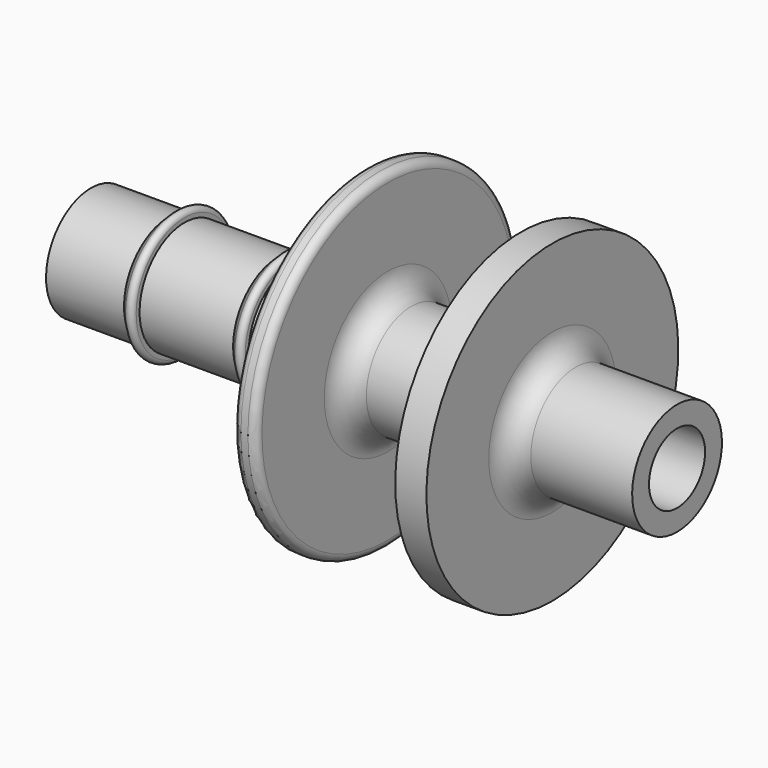
from build123d import *


with BuildPart() as f1:
    # F0 (on Front) → F1 (revolve)
    with BuildSketch(Plane.XZ):
        with BuildLine():
            Line((18.39336, -2.25), (-19.20664, -2.25))
            Line((-19.20664, -2.25), (-19.20664, -3.6))
            Line((-19.20664, -3.6), (-14.20664, -3.6))
            Line((-14.20664, -3.6), (-13.718772, -4.087868))
            ThreePointArc((-13.718772, -4.087868), (-13.391835, -4.1529), (-13.20664, -3.875736))
            Line((-13.20664, -3.875736), (-13.20664, -3.6))
            Line((-13.20664, -3.6), (-7.20664, -3.6))
            Line((-7.20664, -3.6), (-6.718772, -4.087868))
            ThreePointArc((-6.718772, -4.087868), (-6.391835, -4.1529), (-6.20664, -3.875736))
            Line((-6.20664, -3.875736), (-6.20664, -3.6))
            Line((-6.20664, -3.6), (-3.10664, -3.6))
            ThreePointArc((-3.10664, -3.6), (-2.04598, -4.03934), (-1.60664, -5.1))
            Line((-1.60664, -5.1), (-1.60664, -10.1))
            ThreePointArc((-1.60664, -10.1), (-1.460194, -10.453553), (-1.10664, -10.6))
            Line((-1.10664, -10.6), (-0.65664, -10.6))
            ThreePointArc((-0.65664, -10.6), (-0.303087, -10.453553), (-0.15664, -10.1))
            Line((-0.15664, -10.1), (-0.15664, -5.1))
            ThreePointArc((-0.15664, -5.1), (0.2827, -4.03934), (1.34336, -3.6))
            Line((1.34336, -3.6), (6.89336, -3.6))
            ThreePointArc((6.89336, -3.6), (7.95402, -4.03934), (8.39336, -5.1))
            Line((8.39336, -5.1), (8.39336, -10.1))
            Line((8.39336, -10.1), (10.39336, -10.1))
            Line((10.39336, -10.1), (10.39336, -5.1))
            ThreePointArc((10.39336, -5.1), (10.8327, -4.03934), (11.89336, -3.6))
            Line((11.89336, -3.6), (18.39336, -3.6))
            Line((18.39336, -3.6), (18.39336, -2.25))
        make_face()
    revolve(axis=Axis((-0.450039, 0, 0), (1, 0, 0)))


solid = f1.part
